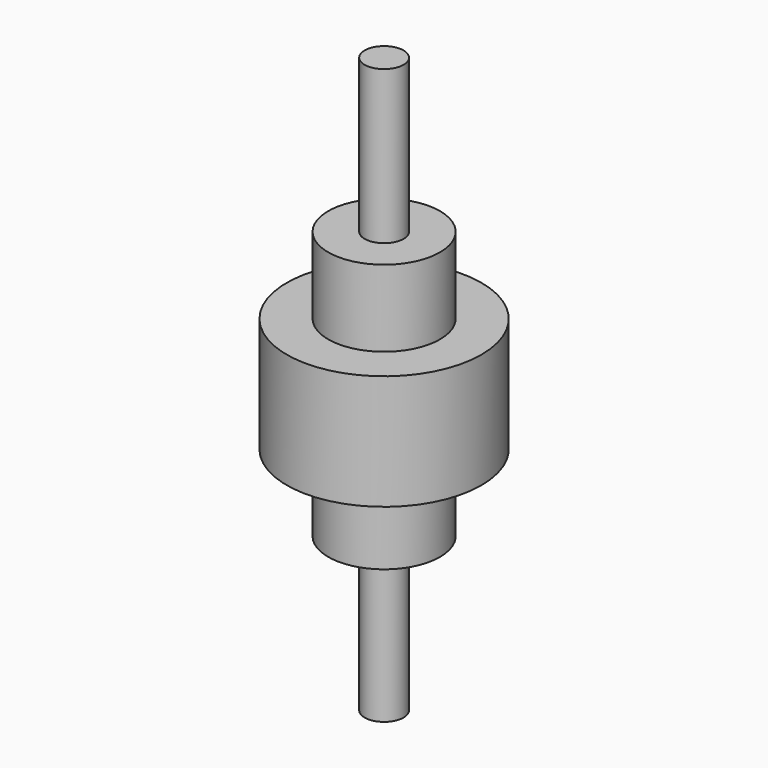
from build123d import *

# Parameters (mm, degrees)
F0_R     = 5.085856
F1_DEPTH = 75
F0_R_2   = 14.586224
F2_DEPTH = 35
F0_R_3   = 25.413883
F3_DEPTH = 15


with BuildPart() as f1:
    # F0 (on Top) → F1 (new body, symmetric)
    with BuildSketch(Plane.XY):
        Circle(F0_R)
    extrude(amount=F1_DEPTH, both=True)

    # F0 (on Top) → F2 (join, symmetric)
    with BuildSketch(Plane.XY):
        Circle(F0_R_2)
        Circle(F0_R, mode=Mode.SUBTRACT)
    extrude(amount=F2_DEPTH, both=True)

    # F0 (on Top) → F3 (join, symmetric)
    with BuildSketch(Plane.XY):
        Circle(F0_R_3)
        Circle(F0_R_2, mode=Mode.SUBTRACT)
    extrude(amount=F3_DEPTH, both=True)


solid = f1.part
